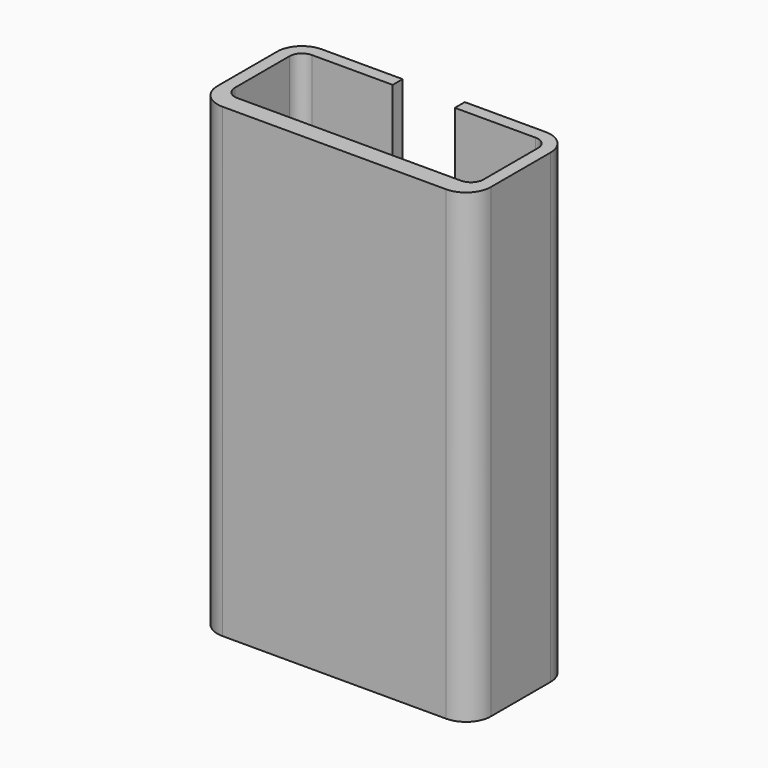
from build123d import *

# Parameters (mm, degrees)
F1_DEPTH = 30


with BuildPart() as f1:
    # F0 (on Top) → F1 (new body)
    with BuildSketch(Plane.XY):
        with BuildLine():
            Line((-17.6, 6.4), (-17.6, 1.6))
            ThreePointArc((-17.6, 1.6), (-17.131371, 0.468629), (-16, 0))
            Line((-16, 0), (-1.6, 0))
            ThreePointArc((-1.6, 0), (-0.468629, 0.468629), (0, 1.6))
            Line((0, 1.6), (0, 6.4))
            ThreePointArc((0, 6.4), (-0.468629, 7.531371), (-1.6, 8))
            Line((-1.6, 8), (-6.8, 8))
            Line((-6.8, 8), (-6.8, 7.2))
            Line((-6.8, 7.2), (-1.6, 7.2))
            ThreePointArc((-1.6, 7.2), (-1.034315, 6.965685), (-0.8, 6.4))
            Line((-0.8, 6.4), (-0.8, 2))
            ThreePointArc((-0.8, 2), (-1.034315, 1.434315), (-1.6, 1.2))
            Line((-1.6, 1.2), (-16, 1.2))
            ThreePointArc((-16, 1.2), (-16.565685, 1.434315), (-16.8, 2))
            Line((-16.8, 2), (-16.8, 6.4))
            ThreePointArc((-16.8, 6.4), (-16.565685, 6.965685), (-16, 7.2))
            Line((-16, 7.2), (-10.8, 7.2))
            Line((-10.8, 7.2), (-10.8, 8))
            Line((-10.8, 8), (-16, 8))
            ThreePointArc((-16, 8), (-17.131371, 7.531371), (-17.6, 6.4))
        make_face()
    extrude(amount=F1_DEPTH)


solid = f1.part
